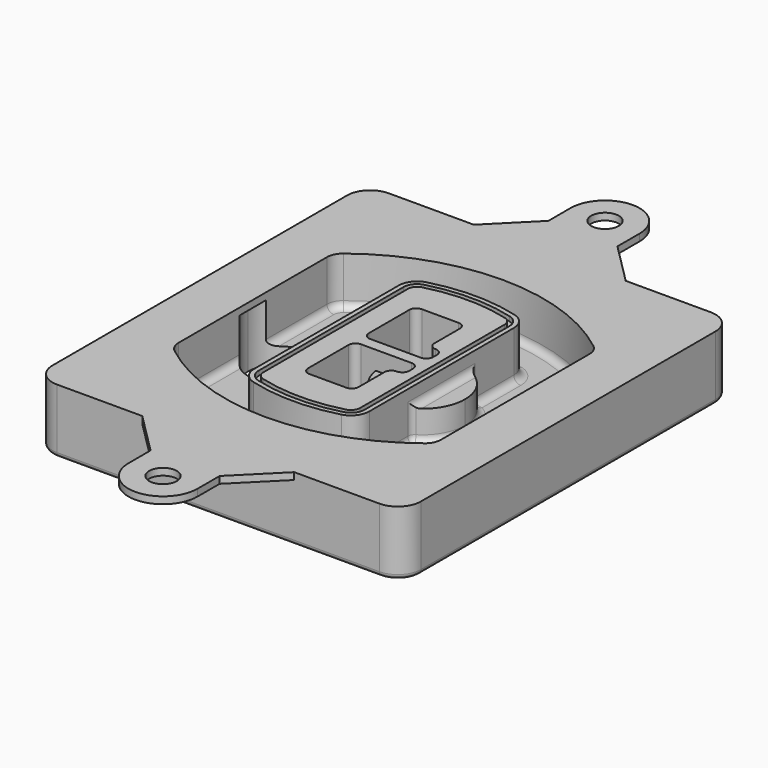
from build123d import *

# Parameters (mm, degrees)
F0_R      = 4
F1_DEPTH  = 25
F2_DEPTH  = 3
F3_DEPTH  = 18
F5_DEPTH  = 21
F6_DEPTH  = 2
F8_DEPTH  = 20
F9_DEPTH  = 16
F10_DEPTH = 25
F7_R      = 6
F7_R_2    = 4
F11_DEPTH = 6
F13_DEPTH = 9
F14_R     = 3
F15_R     = 2
F16_R     = 6
F17_DEPTH = 3


with BuildPart() as f1:
    # F0 (on Top) → F1 (new body)
    with BuildSketch(Plane.XY):
        with BuildLine():
            ThreePointArc((14.05, 38.3825811321), (16.9789321881, 31.3115133202), (24.05, 28.3825811321))
            Line((24.05, 28.3825811321), (164.05, 28.3825811321))
            ThreePointArc((164.05, 28.3825811321), (171.1210678119, 31.3115133202), (174.05, 38.3825811321))
            Line((174.05, 38.3825811321), (174.05, 198.3825811321))
            ThreePointArc((174.05, 198.3825811321), (171.1210678119, 205.4536489439), (164.05, 208.3825811321))
            Line((164.05, 208.3825811321), (24.05, 208.3825811321))
            ThreePointArc((24.05, 208.3825811321), (16.9789321881, 205.4536489439), (14.05, 198.3825811321))
            Line((14.05, 198.3825811321), (14.05, 38.3825811321))
        make_face()
        with Locations((34.05, 50.8825811321)):
            Circle(F0_R, mode=Mode.SUBTRACT)
        with Locations((154.05, 50.8825811321)):
            Circle(F0_R, mode=Mode.SUBTRACT)
        with BuildLine():
            ThreePointArc((30.05, 158.6760234193), (31.4679615202, 164.8154295545), (35.4346153846, 169.7112011673))
            ThreePointArc((35.4346153846, 169.7112011673), (94.05, 189.8825811321), (152.6653846154, 169.7112011673))
            ThreePointArc((152.6653846154, 169.7112011673), (156.6320384798, 164.8154295545), (158.05, 158.6760234193))
            Line((158.05, 158.6760234193), (158.05, 78.0891388448))
            ThreePointArc((158.05, 78.0891388448), (156.6320384798, 71.9497327097), (152.6653846154, 67.0539610969))
            ThreePointArc((152.6653846154, 67.0539610969), (94.05, 46.8825811321), (35.4346153846, 67.0539610969))
            ThreePointArc((35.4346153846, 67.0539610969), (31.4679615202, 71.9497327097), (30.05, 78.0891388448))
            Line((30.05, 78.0891388448), (30.05, 158.6760234193))
        make_face(mode=Mode.SUBTRACT)
        with Locations((34.05, 185.8825811321)):
            Circle(F0_R, mode=Mode.SUBTRACT)
        with Locations((154.05, 185.8825811321)):
            Circle(F0_R, mode=Mode.SUBTRACT)
        with BuildLine():
            ThreePointArc((152.6653846154, 169.7112011673), (94.05, 189.8825811321), (35.4346153846, 169.7112011673))
            ThreePointArc((35.4346153846, 169.7112011673), (31.4679615202, 164.8154295545), (30.05, 158.6760234193))
            Line((30.05, 158.6760234193), (30.05, 78.0891388448))
            ThreePointArc((30.05, 78.0891388448), (31.4679615202, 71.9497327097), (35.4346153846, 67.0539610969))
            ThreePointArc((35.4346153846, 67.0539610969), (94.05, 46.8825811321), (152.6653846154, 67.0539610969))
            ThreePointArc((152.6653846154, 67.0539610969), (156.6320384798, 71.9497327097), (158.05, 78.0891388448))
            Line((158.05, 78.0891388448), (158.05, 158.6760234193))
            ThreePointArc((158.05, 158.6760234193), (156.6320384798, 164.8154295545), (152.6653846154, 169.7112011673))
        make_face()
        with BuildLine():
            Line((34.05, 78.0891388448), (34.05, 158.6760234193))
            ThreePointArc((34.05, 158.6760234193), (35.0628296573, 163.0613135158), (37.8961538462, 166.5582932393))
            ThreePointArc((37.8961538462, 166.5582932393), (94.05, 185.8825811321), (150.2038461538, 166.5582932393))
            ThreePointArc((150.2038461538, 166.5582932393), (153.0371703427, 163.0613135158), (154.05, 158.6760234193))
            Line((154.05, 158.6760234193), (154.05, 78.0891388448))
            ThreePointArc((154.05, 78.0891388448), (153.0371703427, 73.7038487483), (150.2038461538, 70.2068690248))
            ThreePointArc((150.2038461538, 70.2068690248), (94.05, 50.8825811321), (37.8961538462, 70.2068690248))
            ThreePointArc((37.8961538462, 70.2068690248), (35.0628296573, 73.7038487483), (34.05, 78.0891388448))
        make_face(mode=Mode.SUBTRACT)
        with BuildLine():
            ThreePointArc((37.8961538462, 166.5582932393), (35.0628296573, 163.0613135158), (34.05, 158.6760234193))
            Line((34.05, 158.6760234193), (34.05, 78.0891388448))
            ThreePointArc((34.05, 78.0891388448), (35.0628296573, 73.7038487483), (37.8961538462, 70.2068690248))
            ThreePointArc((37.8961538462, 70.2068690248), (94.05, 50.8825811321), (150.2038461538, 70.2068690248))
            ThreePointArc((150.2038461538, 70.2068690248), (153.0371703427, 73.7038487483), (154.05, 78.0891388448))
            Line((154.05, 78.0891388448), (154.05, 158.6760234193))
            ThreePointArc((154.05, 158.6760234193), (153.0371703427, 163.0613135158), (150.2038461538, 166.5582932393))
            ThreePointArc((150.2038461538, 166.5582932393), (94.05, 185.8825811321), (37.8961538462, 166.5582932393))
        make_face()
        with BuildLine():
            ThreePointArc((148.3576923077, 164.1936122933), (150.3410192399, 161.7457264869), (151.05, 158.6760234193))
            Line((151.05, 158.6760234193), (151.05, 78.0891388448))
            ThreePointArc((151.05, 78.0891388448), (150.3410192399, 75.0194357772), (148.3576923077, 72.5715499708))
            ThreePointArc((148.3576923077, 72.5715499708), (94.05, 53.8825811321), (39.7423076923, 72.5715499708))
            ThreePointArc((39.7423076923, 72.5715499708), (37.7589807601, 75.0194357772), (37.05, 78.0891388448))
            Line((37.05, 78.0891388448), (37.05, 158.6760234193))
            ThreePointArc((37.05, 158.6760234193), (37.7589807601, 161.7457264869), (39.7423076923, 164.1936122933))
            ThreePointArc((39.7423076923, 164.1936122933), (94.05, 182.8825811321), (148.3576923077, 164.1936122933))
        make_face(mode=Mode.SUBTRACT)
        with BuildLine():
            Line((151.05, 78.0891388448), (151.05, 158.6760234193))
            ThreePointArc((151.05, 158.6760234193), (150.3410192399, 161.7457264869), (148.3576923077, 164.1936122933))
            ThreePointArc((148.3576923077, 164.1936122933), (94.05, 182.8825811321), (39.7423076923, 164.1936122933))
            ThreePointArc((39.7423076923, 164.1936122933), (37.7589807601, 161.7457264869), (37.05, 158.6760234193))
            Line((37.05, 158.6760234193), (37.05, 78.0891388448))
            ThreePointArc((37.05, 78.0891388448), (37.7589807601, 75.0194357772), (39.7423076923, 72.5715499708))
            ThreePointArc((39.7423076923, 72.5715499708), (94.05, 53.8825811321), (148.3576923077, 72.5715499708))
            ThreePointArc((148.3576923077, 72.5715499708), (150.3410192399, 75.0194357772), (151.05, 78.0891388448))
        make_face()
    extrude(amount=-F1_DEPTH)

    # F0 (on Top) → F2 (join)
    with BuildSketch(Plane.XY):
        with BuildLine():
            ThreePointArc((37.8961538462, 166.5582932393), (35.0628296573, 163.0613135158), (34.05, 158.6760234193))
            Line((34.05, 158.6760234193), (34.05, 78.0891388448))
            ThreePointArc((34.05, 78.0891388448), (35.0628296573, 73.7038487483), (37.8961538462, 70.2068690248))
            ThreePointArc((37.8961538462, 70.2068690248), (94.05, 50.8825811321), (150.2038461538, 70.2068690248))
            ThreePointArc((150.2038461538, 70.2068690248), (153.0371703427, 73.7038487483), (154.05, 78.0891388448))
            Line((154.05, 78.0891388448), (154.05, 158.6760234193))
            ThreePointArc((154.05, 158.6760234193), (153.0371703427, 163.0613135158), (150.2038461538, 166.5582932393))
            ThreePointArc((150.2038461538, 166.5582932393), (94.05, 185.8825811321), (37.8961538462, 166.5582932393))
        make_face()
        with BuildLine():
            ThreePointArc((148.3576923077, 164.1936122933), (150.3410192399, 161.7457264869), (151.05, 158.6760234193))
            Line((151.05, 158.6760234193), (151.05, 78.0891388448))
            ThreePointArc((151.05, 78.0891388448), (150.3410192399, 75.0194357772), (148.3576923077, 72.5715499708))
            ThreePointArc((148.3576923077, 72.5715499708), (94.05, 53.8825811321), (39.7423076923, 72.5715499708))
            ThreePointArc((39.7423076923, 72.5715499708), (37.7589807601, 75.0194357772), (37.05, 78.0891388448))
            Line((37.05, 78.0891388448), (37.05, 158.6760234193))
            ThreePointArc((37.05, 158.6760234193), (37.7589807601, 161.7457264869), (39.7423076923, 164.1936122933))
            ThreePointArc((39.7423076923, 164.1936122933), (94.05, 182.8825811321), (148.3576923077, 164.1936122933))
        make_face(mode=Mode.SUBTRACT)
    extrude(amount=F2_DEPTH)

    # F0 (on Top) → F3 (cut)
    with BuildSketch(Plane.XY):
        with BuildLine():
            Line((151.05, 78.0891388448), (151.05, 158.6760234193))
            ThreePointArc((151.05, 158.6760234193), (150.3410192399, 161.7457264869), (148.3576923077, 164.1936122933))
            ThreePointArc((148.3576923077, 164.1936122933), (94.05, 182.8825811321), (39.7423076923, 164.1936122933))
            ThreePointArc((39.7423076923, 164.1936122933), (37.7589807601, 161.7457264869), (37.05, 158.6760234193))
            Line((37.05, 158.6760234193), (37.05, 78.0891388448))
            ThreePointArc((37.05, 78.0891388448), (37.7589807601, 75.0194357772), (39.7423076923, 72.5715499708))
            ThreePointArc((39.7423076923, 72.5715499708), (94.05, 53.8825811321), (148.3576923077, 72.5715499708))
            ThreePointArc((148.3576923077, 72.5715499708), (150.3410192399, 75.0194357772), (151.05, 78.0891388448))
        make_face()
    extrude(amount=-F3_DEPTH, mode=Mode.SUBTRACT)

    # F4 (on face) → F5 (join, through all)
    with BuildSketch(Plane.XY.offset(3)):
        with BuildLine():
            ThreePointArc((69.05, 79.13605345), (70.6988454002, 74.2716074128), (74.9657088123, 71.4123412437))
            ThreePointArc((74.9657088123, 71.4123412437), (94.05, 68.8825811321), (113.1342911877, 71.4123412437))
            ThreePointArc((113.1342911877, 71.4123412437), (117.4011545998, 74.2716074128), (119.05, 79.13605345))
            Line((119.05, 79.13605345), (119.05, 157.6291088141))
            ThreePointArc((119.05, 157.6291088141), (117.4011545998, 162.4935548514), (113.1342911877, 165.3528210204))
            ThreePointArc((113.1342911877, 165.3528210204), (94.05, 167.8825811321), (74.9657088123, 165.3528210204))
            ThreePointArc((74.9657088123, 165.3528210204), (70.6988454002, 162.4935548514), (69.05, 157.6291088141))
            Line((69.05, 157.6291088141), (69.05, 79.13605345))
        make_face()
        with BuildLine():
            ThreePointArc((112.6132183908, 163.4218929688), (115.8133659499, 161.2774433421), (117.05, 157.6291088141))
            Line((117.05, 157.6291088141), (117.05, 79.13605345))
            ThreePointArc((117.05, 79.13605345), (115.8133659499, 75.4877189221), (112.6132183908, 73.3432692953))
            ThreePointArc((112.6132183908, 73.3432692953), (94.05, 70.8825811321), (75.4867816092, 73.3432692953))
            ThreePointArc((75.4867816092, 73.3432692953), (72.2866340501, 75.4877189221), (71.05, 79.13605345))
            Line((71.05, 79.13605345), (71.05, 157.6291088141))
            ThreePointArc((71.05, 157.6291088141), (72.2866340501, 161.2774433421), (75.4867816092, 163.4218929688))
            ThreePointArc((75.4867816092, 163.4218929688), (94.05, 165.8825811321), (112.6132183908, 163.4218929688))
        make_face(mode=Mode.SUBTRACT)
        with BuildLine():
            Line((117.05, 79.13605345), (117.05, 157.6291088141))
            ThreePointArc((117.05, 157.6291088141), (115.8133659499, 161.2774433421), (112.6132183908, 163.4218929688))
            ThreePointArc((112.6132183908, 163.4218929688), (94.05, 165.8825811321), (75.4867816092, 163.4218929688))
            ThreePointArc((75.4867816092, 163.4218929688), (72.2866340501, 161.2774433421), (71.05, 157.6291088141))
            Line((71.05, 157.6291088141), (71.05, 79.13605345))
            ThreePointArc((71.05, 79.13605345), (72.2866340501, 75.4877189221), (75.4867816092, 73.3432692953))
            ThreePointArc((75.4867816092, 73.3432692953), (94.05, 70.8825811321), (112.6132183908, 73.3432692953))
            ThreePointArc((112.6132183908, 73.3432692953), (115.8133659499, 75.4877189221), (117.05, 79.13605345))
        make_face()
        with BuildLine():
            ThreePointArc((112.0921455939, 161.4909649173), (114.2255772999, 160.0613318328), (115.05, 157.6291088141))
            Line((115.05, 157.6291088141), (115.05, 79.13605345))
            ThreePointArc((115.05, 79.13605345), (114.2255772999, 76.7038304314), (112.0921455939, 75.2741973469))
            ThreePointArc((112.0921455939, 75.2741973469), (94.05, 72.8825811321), (76.0078544061, 75.2741973469))
            ThreePointArc((76.0078544061, 75.2741973469), (73.8744227001, 76.7038304314), (73.05, 79.13605345))
            Line((73.05, 79.13605345), (73.05, 157.6291088141))
            ThreePointArc((73.05, 157.6291088141), (73.8744227001, 160.0613318328), (76.0078544061, 161.4909649173))
            ThreePointArc((76.0078544061, 161.4909649173), (94.05, 163.8825811321), (112.0921455939, 161.4909649173))
        make_face(mode=Mode.SUBTRACT)
        with BuildLine():
            Line((115.05, 79.13605345), (115.05, 157.6291088141))
            ThreePointArc((115.05, 157.6291088141), (114.2255772999, 160.0613318328), (112.0921455939, 161.4909649173))
            ThreePointArc((112.0921455939, 161.4909649173), (94.05, 163.8825811321), (76.0078544061, 161.4909649173))
            ThreePointArc((76.0078544061, 161.4909649173), (73.8744227001, 160.0613318328), (73.05, 157.6291088141))
            Line((73.05, 157.6291088141), (73.05, 79.13605345))
            ThreePointArc((73.05, 79.13605345), (73.8744227001, 76.7038304314), (76.0078544061, 75.2741973469))
            ThreePointArc((76.0078544061, 75.2741973469), (94.05, 72.8825811321), (112.0921455939, 75.2741973469))
            ThreePointArc((112.0921455939, 75.2741973469), (114.2255772999, 76.7038304314), (115.05, 79.13605345))
        make_face()
        with BuildLine():
            Line((86.05, 115.8825811321), (108.05, 115.8825811321))
            ThreePointArc((108.05, 115.8825811321), (110.1713203436, 115.0039014756), (111.05, 112.8825811321))
            Line((111.05, 112.8825811321), (111.05, 110.8825811321))
            ThreePointArc((111.05, 110.8825811321), (110.1713203436, 108.7612607885), (108.05, 107.8825811321))
            ThreePointArc((108.05, 107.8825811321), (105.9286796564, 107.0039014756), (105.05, 104.8825811321))
            Line((105.05, 104.8825811321), (105.05, 90.8825811321))
            ThreePointArc((105.05, 90.8825811321), (104.1713203436, 88.7612607885), (102.05, 87.8825811321))
            Line((102.05, 87.8825811321), (86.05, 87.8825811321))
            ThreePointArc((86.05, 87.8825811321), (83.9286796564, 88.7612607885), (83.05, 90.8825811321))
            Line((83.05, 90.8825811321), (83.05, 112.8825811321))
            ThreePointArc((83.05, 112.8825811321), (83.9286796564, 115.0039014756), (86.05, 115.8825811321))
        make_face(mode=Mode.SUBTRACT)
        with BuildLine():
            ThreePointArc((86.05, 120.8825811321), (83.9286796564, 121.7612607885), (83.05, 123.8825811321))
            Line((83.05, 123.8825811321), (83.05, 145.8825811321))
            ThreePointArc((83.05, 145.8825811321), (83.9286796564, 148.0039014756), (86.05, 148.8825811321))
            Line((86.05, 148.8825811321), (102.05, 148.8825811321))
            ThreePointArc((102.05, 148.8825811321), (104.1713203436, 148.0039014756), (105.05, 145.8825811321))
            Line((105.05, 145.8825811321), (105.05, 131.8825811321))
            ThreePointArc((105.05, 131.8825811321), (105.9286796564, 129.7612607885), (108.05, 128.8825811321))
            ThreePointArc((108.05, 128.8825811321), (110.1713203436, 128.0039014756), (111.05, 125.8825811321))
            Line((111.05, 125.8825811321), (111.05, 123.8825811321))
            ThreePointArc((111.05, 123.8825811321), (110.1713203436, 121.7612607885), (108.05, 120.8825811321))
            Line((108.05, 120.8825811321), (86.05, 120.8825811321))
        make_face(mode=Mode.SUBTRACT)
    extrude(amount=-F5_DEPTH)

    # F4 (on face) → F6 (cut)
    with BuildSketch(Plane.XY.offset(3)):
        with BuildLine():
            Line((117.05, 79.13605345), (117.05, 157.6291088141))
            ThreePointArc((117.05, 157.6291088141), (115.8133659499, 161.2774433421), (112.6132183908, 163.4218929688))
            ThreePointArc((112.6132183908, 163.4218929688), (94.05, 165.8825811321), (75.4867816092, 163.4218929688))
            ThreePointArc((75.4867816092, 163.4218929688), (72.2866340501, 161.2774433421), (71.05, 157.6291088141))
            Line((71.05, 157.6291088141), (71.05, 79.13605345))
            ThreePointArc((71.05, 79.13605345), (72.2866340501, 75.4877189221), (75.4867816092, 73.3432692953))
            ThreePointArc((75.4867816092, 73.3432692953), (94.05, 70.8825811321), (112.6132183908, 73.3432692953))
            ThreePointArc((112.6132183908, 73.3432692953), (115.8133659499, 75.4877189221), (117.05, 79.13605345))
        make_face()
        with BuildLine():
            ThreePointArc((112.0921455939, 161.4909649173), (114.2255772999, 160.0613318328), (115.05, 157.6291088141))
            Line((115.05, 157.6291088141), (115.05, 79.13605345))
            ThreePointArc((115.05, 79.13605345), (114.2255772999, 76.7038304314), (112.0921455939, 75.2741973469))
            ThreePointArc((112.0921455939, 75.2741973469), (94.05, 72.8825811321), (76.0078544061, 75.2741973469))
            ThreePointArc((76.0078544061, 75.2741973469), (73.8744227001, 76.7038304314), (73.05, 79.13605345))
            Line((73.05, 79.13605345), (73.05, 157.6291088141))
            ThreePointArc((73.05, 157.6291088141), (73.8744227001, 160.0613318328), (76.0078544061, 161.4909649173))
            ThreePointArc((76.0078544061, 161.4909649173), (94.05, 163.8825811321), (112.0921455939, 161.4909649173))
        make_face(mode=Mode.SUBTRACT)
    extrude(amount=-F6_DEPTH, mode=Mode.SUBTRACT)

    # F7 (on face) → F8 (join)
    with BuildSketch(Plane(origin=(0, 0, -25), x_dir=(1, 0, 0), z_dir=(0, 0, -1))):
        with BuildLine():
            ThreePointArc((97.33842436, -118.3825811321), (110.8067035675, -104.9143019245), (124.274982775, -118.3825811321))
            Line((124.274982775, -118.3825811321), (129.274982775, -118.3825811321))
            ThreePointArc((129.274982775, -118.3825811321), (110.8067035675, -99.9143019245), (92.33842436, -118.3825811321))
            Line((92.33842436, -118.3825811321), (97.33842436, -118.3825811321))
        make_face()
        with BuildLine():
            Line((97.33842436, -118.3825811321), (124.274982775, -118.3825811321))
            ThreePointArc((124.274982775, -118.3825811321), (110.8067035675, -104.9143019245), (97.33842436, -118.3825811321))
        make_face()
        with BuildLine():
            ThreePointArc((97.33842436, -118.3825811321), (110.8067035675, -131.8508603396), (124.274982775, -118.3825811321))
            Line((124.274982775, -118.3825811321), (97.33842436, -118.3825811321))
        make_face()
        with BuildLine():
            Line((129.274982775, -118.3825811321), (124.274982775, -118.3825811321))
            ThreePointArc((124.274982775, -118.3825811321), (110.8067035675, -131.8508603396), (97.33842436, -118.3825811321))
            Line((97.33842436, -118.3825811321), (92.33842436, -118.3825811321))
            ThreePointArc((92.33842436, -118.3825811321), (110.8067035675, -136.8508603396), (129.274982775, -118.3825811321))
        make_face()
    extrude(amount=-F8_DEPTH)

    # F7 (on face) → F9 (cut)
    with BuildSketch(Plane(origin=(0, 0, -25), x_dir=(1, 0, 0), z_dir=(0, 0, -1))):
        with BuildLine():
            Line((97.33842436, -118.3825811321), (124.274982775, -118.3825811321))
            ThreePointArc((124.274982775, -118.3825811321), (110.8067035675, -104.9143019245), (97.33842436, -118.3825811321))
        make_face()
        with BuildLine():
            ThreePointArc((97.33842436, -118.3825811321), (110.8067035675, -131.8508603396), (124.274982775, -118.3825811321))
            Line((124.274982775, -118.3825811321), (97.33842436, -118.3825811321))
        make_face()
    extrude(amount=-F9_DEPTH, mode=Mode.SUBTRACT)

    # F7 (on face) → F10 (cut)
    with BuildSketch(Plane(origin=(0, 0, -25), x_dir=(1, 0, 0), z_dir=(0, 0, -1))):
        with BuildLine():
            Line((35.0181770675, -118.3825811321), (61.9547354825, -118.3825811321))
            ThreePointArc((61.9547354825, -118.3825811321), (48.486456275, -104.9143019245), (35.0181770675, -118.3825811321))
        make_face()
        with BuildLine():
            ThreePointArc((35.0181770675, -118.3825811321), (48.486456275, -131.8508603396), (61.9547354825, -118.3825811321))
            Line((61.9547354825, -118.3825811321), (35.0181770675, -118.3825811321))
        make_face()
    extrude(amount=-F10_DEPTH, mode=Mode.SUBTRACT)

    # F7 (on face) → F11 (cut)
    with BuildSketch(Plane(origin=(0, 0, -25), x_dir=(1, 0, 0), z_dir=(0, 0, -1))):
        with Locations((154.05, -185.8825811321)):
            Circle(F7_R)
        with Locations((154.05, -185.8825811321)):
            Circle(F7_R_2, mode=Mode.SUBTRACT)
        with Locations((154.05, -185.8825811321)):
            Circle(F7_R)
        with Locations((154.05, -185.8825811321)):
            Circle(F7_R_2, mode=Mode.SUBTRACT)
        with Locations((34.05, -185.8825811321)):
            Circle(F7_R)
        with Locations((34.05, -185.8825811321)):
            Circle(F7_R_2, mode=Mode.SUBTRACT)
        with Locations((34.05, -185.8825811321)):
            Circle(F7_R)
        with Locations((34.05, -185.8825811321)):
            Circle(F7_R_2, mode=Mode.SUBTRACT)
        with Locations((34.05, -50.8825811321)):
            Circle(F7_R)
        with Locations((34.05, -50.8825811321)):
            Circle(F7_R_2, mode=Mode.SUBTRACT)
        with Locations((34.05, -50.8825811321)):
            Circle(F7_R)
        with Locations((34.05, -50.8825811321)):
            Circle(F7_R_2, mode=Mode.SUBTRACT)
        with Locations((154.05, -50.8825811321)):
            Circle(F7_R)
        with Locations((154.05, -50.8825811321)):
            Circle(F7_R_2, mode=Mode.SUBTRACT)
        with Locations((154.05, -50.8825811321)):
            Circle(F7_R)
        with Locations((154.05, -50.8825811321)):
            Circle(F7_R_2, mode=Mode.SUBTRACT)
    extrude(amount=-F11_DEPTH, mode=Mode.SUBTRACT)

    # F12 (on face) → F13 (cut, through all)
    with BuildSketch(Plane(origin=(0, 0, -9), x_dir=(1, 0, 0), z_dir=(0, 0, -1))):
        with BuildLine():
            Line((105.05, -104.8825811321), (105.05, -100.8344273567))
            ThreePointArc((105.05, -100.8344273567), (96.6196536419, -106.5586667507), (92.5084157545, -115.8825811321))
            Line((92.5084157545, -115.8825811321), (97.5724848595, -115.8825811321))
            ThreePointArc((97.5724848595, -115.8825811321), (100.2357188154, -110.0369939039), (105.3036447004, -106.0898642673))
            ThreePointArc((105.3036447004, -106.0898642673), (105.1140958889, -105.4994012441), (105.05, -104.8825811321))
        make_face()
        with BuildLine():
            ThreePointArc((105.3036447004, -130.6752979968), (100.2357188154, -126.7281683602), (97.5724848595, -120.8825811321))
            Line((97.5724848595, -120.8825811321), (92.5084157545, -120.8825811321))
            ThreePointArc((92.5084157545, -120.8825811321), (96.6196536419, -130.2064955134), (105.05, -135.9307349074))
            Line((105.05, -135.9307349074), (105.05, -131.8825811321))
            ThreePointArc((105.05, -131.8825811321), (105.1140958889, -131.26576102), (105.3036447004, -130.6752979968))
        make_face()
        with BuildLine():
            ThreePointArc((105.3036447004, -106.0898642673), (100.2357188154, -110.0369939039), (97.5724848595, -115.8825811321))
            Line((97.5724848595, -115.8825811321), (108.05, -115.8825811321))
            ThreePointArc((108.05, -115.8825811321), (110.1713203436, -115.0039014756), (111.05, -112.8825811321))
            Line((111.05, -112.8825811321), (111.05, -110.8825811321))
            ThreePointArc((111.05, -110.8825811321), (110.1713203436, -108.7612607885), (108.05, -107.8825811321))
            ThreePointArc((108.05, -107.8825811321), (106.4101599782, -107.3947365219), (105.3036447004, -106.0898642673))
        make_face()
        with BuildLine():
            Line((108.05, -120.8825811321), (97.5724848595, -120.8825811321))
            ThreePointArc((97.5724848595, -120.8825811321), (100.2357188154, -126.7281683602), (105.3036447004, -130.6752979968))
            ThreePointArc((105.3036447004, -130.6752979968), (106.4101599782, -129.3704257422), (108.05, -128.8825811321))
            ThreePointArc((108.05, -128.8825811321), (110.1713203436, -128.0039014756), (111.05, -125.8825811321))
            Line((111.05, -125.8825811321), (111.05, -123.8825811321))
            ThreePointArc((111.05, -123.8825811321), (110.1713203436, -121.7612607885), (108.05, -120.8825811321))
        make_face()
    extrude(amount=F13_DEPTH, mode=Mode.SUBTRACT)

    # F14
    f14_edges = [f1.edges().sort_by_distance(p)[0] for p in [
        (37.05, 94.679105, -18),
        (37.05, 142.086057, -18),
        (119.05, 118.382581, -5),
        (119.05, 134.909087, -11.5),
        (119.05, 101.856075, -11.5),
        (119.05, 90.496064, -18),
        (129.274983, 118.382581, -18),
    ]]
    fillet(f14_edges, radius=F14_R)

    # F15
    f15_edges = [f1.edges().sort_by_distance(p)[0] for p in [
        (94.05, 28.382581, -25),
    ]]
    fillet(f15_edges, radius=F15_R)

    # F16 (on face) → F17 (join, through all)
    with BuildSketch(Plane.XY):
        with BuildLine():
            Line((14.05, 198.3825811321), (14.05, 38.3825811321))
            ThreePointArc((14.05, 38.3825811321), (16.9789321881, 31.3115133202), (24.05, 28.3825811321))
            Line((24.05, 28.3825811321), (61.05, 28.3825811321))
            Line((61.05, 28.3825811321), (127.05, 28.3825811321))
            Line((127.05, 28.3825811321), (164.05, 28.3825811321))
            ThreePointArc((164.05, 28.3825811321), (171.1210678119, 31.3115133202), (174.05, 38.3825811321))
            Line((174.05, 38.3825811321), (174.05, 198.3825811321))
            ThreePointArc((174.05, 198.3825811321), (171.1210678119, 205.4536489439), (164.05, 208.3825811321))
            Line((164.05, 208.3825811321), (127.05, 208.3825811321))
            Line((127.05, 208.3825811321), (61.05, 208.3825811321))
            Line((61.05, 208.3825811321), (24.05, 208.3825811321))
            ThreePointArc((24.05, 208.3825811321), (16.9789321881, 205.4536489439), (14.05, 198.3825811321))
        make_face()
        with BuildLine():
            Line((34.05, 78.0891388448), (34.05, 158.6760234193))
            ThreePointArc((34.05, 158.6760234193), (35.0628296573, 163.0613135158), (37.8961538462, 166.5582932393))
            ThreePointArc((37.8961538462, 166.5582932393), (94.05, 185.8825811321), (150.2038461538, 166.5582932393))
            ThreePointArc((150.2038461538, 166.5582932393), (153.0371703427, 163.0613135158), (154.05, 158.6760234193))
            Line((154.05, 158.6760234193), (154.05, 78.0891388448))
            ThreePointArc((154.05, 78.0891388448), (153.0371703427, 73.7038487483), (150.2038461538, 70.2068690248))
            ThreePointArc((150.2038461538, 70.2068690248), (94.05, 50.8825811321), (37.8961538462, 70.2068690248))
            ThreePointArc((37.8961538462, 70.2068690248), (35.0628296573, 73.7038487483), (34.05, 78.0891388448))
        make_face(mode=Mode.SUBTRACT)
        with BuildLine():
            Line((127.05, 28.3825811321), (61.05, 28.3825811321))
            Line((61.05, 28.3825811321), (79.05, 10.3825811321))
            Line((79.05, 10.3825811321), (79.05, -1.6174188679))
            ThreePointArc((79.05, -1.6174188679), (94.05, -16.6174188679), (109.05, -1.6174188679))
            Line((109.05, -1.6174188679), (109.05, 10.3825811321))
            Line((109.05, 10.3825811321), (127.05, 28.3825811321))
        make_face()
        with Locations((94.05, -1.6174188679)):
            Circle(F16_R, mode=Mode.SUBTRACT)
        with BuildLine():
            Line((79.05, 226.3825811321), (61.05, 208.3825811321))
            Line((61.05, 208.3825811321), (127.05, 208.3825811321))
            Line((127.05, 208.3825811321), (109.05, 226.3825811321))
            Line((109.05, 226.3825811321), (109.05, 238.3825811321))
            ThreePointArc((109.05, 238.3825811321), (94.05, 253.3825811321), (79.05, 238.3825811321))
            Line((79.05, 238.3825811321), (79.05, 226.3825811321))
        make_face()
        with Locations((94.05, 238.3825811321)):
            Circle(F16_R, mode=Mode.SUBTRACT)
    extrude(amount=F17_DEPTH)


solid = f1.part
